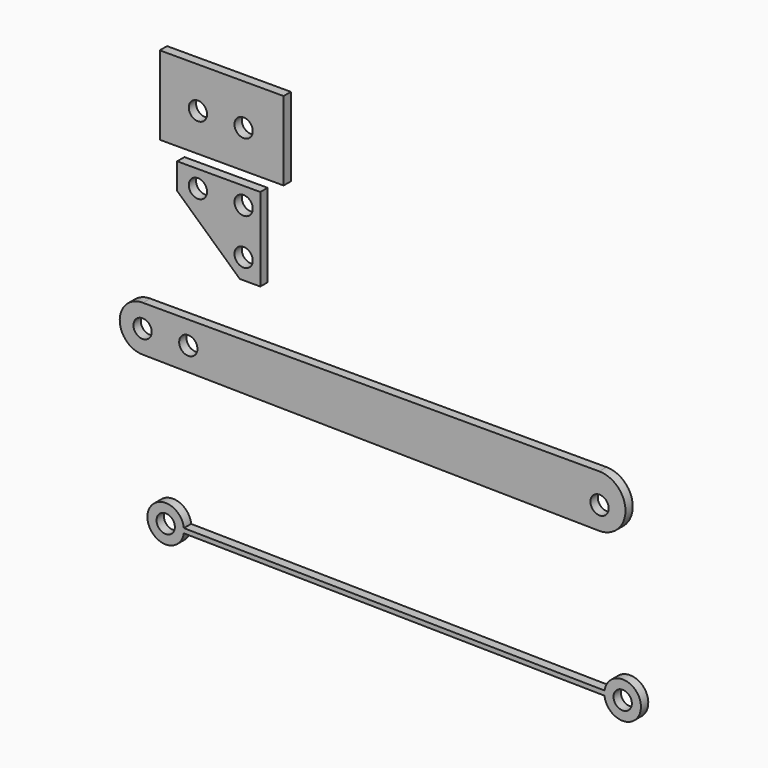
from build123d import *

# Parameters (mm, degrees)
F0_W     = 27.097531
F0_H     = 17.233416
F0_R     = 2
F1_DEPTH = 2
F2_R     = 2
F3_DEPTH = 2
F4_R     = 2
F5_DEPTH = 2
F6_R     = 2
F7_DEPTH = 2


with BuildPart() as f1:
    # F0 (on Front) → F1 (new body)
    with BuildSketch(Plane.XZ):
        with Locations((5.201902, 0.341227)):
            Rectangle(F0_W, F0_H)
        Circle(F0_R, mode=Mode.SUBTRACT)
        with Locations((10, 0)):
            Circle(F0_R, mode=Mode.SUBTRACT)
    extrude(amount=F1_DEPTH)


with BuildPart() as f3:
    # F2 (on Front) → F3 (new body)
    with BuildSketch(Plane.XZ):
        Polygon((13.652718, -11.182562), (-4.537523, -11.182562), (-4.537523, -16.897279), (9.166907, -29.393673), (13.652718, -29.393673), align=None)
        with Locations((10, -24.941308)):
            Circle(F2_R, mode=Mode.SUBTRACT)
        with Locations((0, -14.941308)):
            Circle(F2_R, mode=Mode.SUBTRACT)
        with Locations((10, -14.941308)):
            Circle(F2_R, mode=Mode.SUBTRACT)
    extrude(amount=F3_DEPTH)


with BuildPart() as f5:
    # F4 (on Front) → F5 (new body)
    with BuildSketch(Plane.XZ):
        with BuildLine():
            Line((87.813167, -40.872386), (-12.029353, -40.872386))
            ThreePointArc((-12.029353, -40.872386), (-17.102173, -45.79849), (-12.176069, -50.87131))
            Line((-12.176069, -50.87131), (87.813167, -52.33847))
            ThreePointArc((87.813167, -52.33847), (93.546209, -46.605428), (87.813167, -40.872386))
        make_face()
        with Locations((87.886525, -47.339007)):
            Circle(F4_R, mode=Mode.SUBTRACT)
        with Locations((-12.102711, -45.871848)):
            Circle(F4_R, mode=Mode.SUBTRACT)
        with Locations((-2.102711, -45.871848)):
            Circle(F4_R, mode=Mode.SUBTRACT)
    extrude(amount=F5_DEPTH)


with BuildPart() as f7:
    # F6 (on Front) → F7 (new body)
    with BuildSketch(Plane.XZ):
        with BuildLine():
            ThreePointArc((88.967314, -83.710812), (96.942419, -83.327779), (88.981985, -82.71092))
            Line((88.981985, -82.71092), (-3.070852, -81.360213))
            ThreePointArc((-3.070852, -81.360213), (-11.045957, -81.743246), (-3.085523, -82.360105))
            Line((-3.085523, -82.360105), (88.967314, -83.710812))
        make_face()
        with Locations((92.942849, -83.269092)):
            Circle(F6_R, mode=Mode.SUBTRACT)
        with Locations((-7.046387, -81.801933)):
            Circle(F6_R, mode=Mode.SUBTRACT)
    extrude(amount=F7_DEPTH)


solid = Compound([f1.part, f3.part, f5.part, f7.part])
